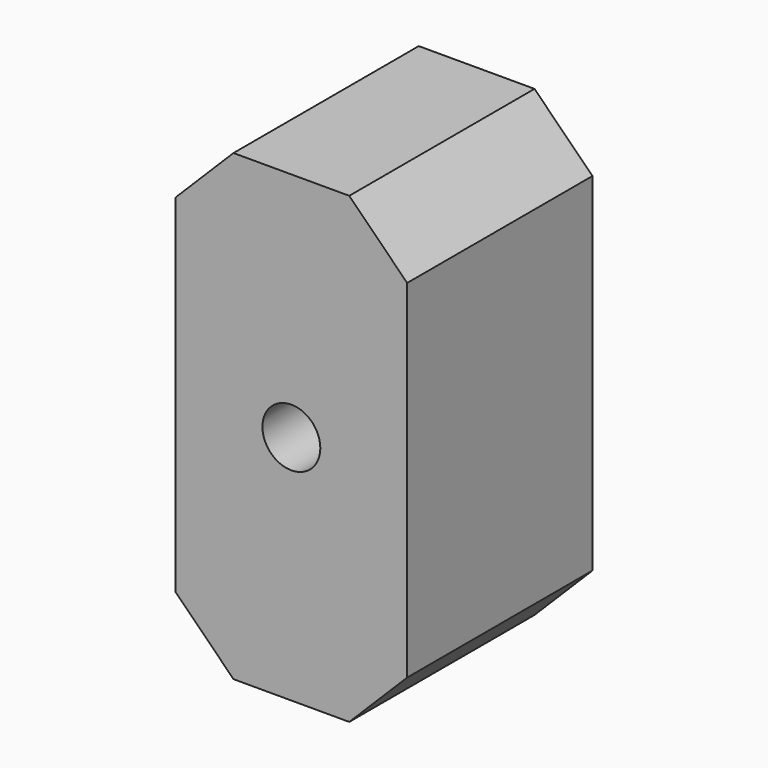
from build123d import *

# Parameters (mm, degrees)
F0_W     = 200
F0_H     = 400
F1_DEPTH = 200
F2_R     = 25
F3_DEPTH = 200.001
F4_SIZE  = 50
F5_SIZE  = 50


with BuildPart() as f1:
    # F0 (on Front) → F1 (new body)
    with BuildSketch(Plane.XZ):
        Rectangle(F0_W, F0_H)
    extrude(amount=F1_DEPTH)

    # F2 (on face) → F3 (cut, through all)
    with BuildSketch(Plane.XZ.offset(200)):
        Circle(F2_R)
    extrude(amount=-F3_DEPTH, mode=Mode.SUBTRACT)

    # F4
    f4_edges = [f1.edges().sort_by_distance(p)[0] for p in [
        (-100, -100, -200),
    ]]
    chamfer(f4_edges, length=F4_SIZE)

    # F5
    f5_edges = [f1.edges().sort_by_distance(p)[0] for p in [
        (100, -100, -200),
        (-100, -100, 200),
        (100, -100, 200),
    ]]
    chamfer(f5_edges, length=F5_SIZE)


solid = f1.part
